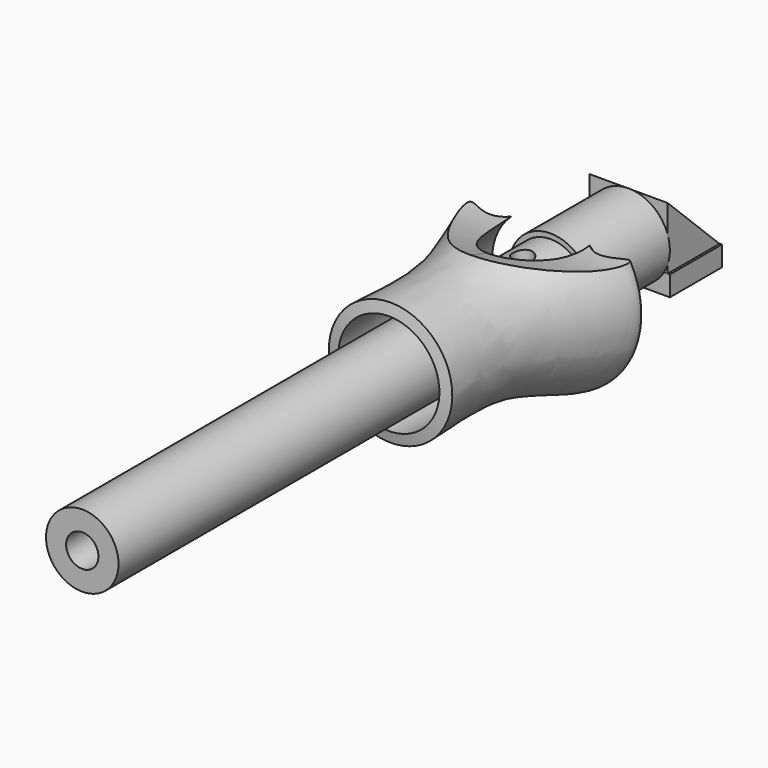
from build123d import *

# Parameters (mm, degrees)
F0_R           = 27.8682567928
F1_DEPTH       = 450
F3_R           = 31.7426077066
F4_DEPTH       = 75
F5_R           = 5.4613803506
F6_DEPTH       = 31.7436077066
F2_R           = 12.4265902443
F7_DEPTH       = 450
F8_R           = 7.5878383405
F9_DEPTH       = 31.7436077066
F10_R          = 7.6803500785
F11_DEPTH      = 31.7436077066
F12_R          = 5.8911696057
F13_DEPTH      = 31.7436077066
F14_R          = 4.2273830794
F15_DEPTH      = 31.7436077066
F16_R          = 9.5416938774
F17_DEPTH      = 31.7436077066
F18_R          = 7.6504655275
F19_DEPTH      = 31.7436077066
F20_W          = 13.7190991081
F20_H          = 25.0280853361
F21_DEPTH      = 31.7436077066
F23_DEPTH      = 50
F24_W          = 30.3069651127
F24_H          = 5.7904422283
F25_DEPTH      = 125
F26_R          = 7.6301115916
F27_DEPTH      = 31.7436077066
F31_DEPTH      = 70.6343507108
F31_DEPTH_BACK = 70.6343507108
F33_DEPTH      = 30
F35_DEPTH      = 30


with BuildPart() as f1:
    # F0 (on Front) → F1 (new body)
    with BuildSketch(Plane.XZ):
        Circle(F0_R)
    extrude(amount=F1_DEPTH)

    # F3 (on Front) → F4 (join)
    with BuildSketch(Plane.XZ):
        Circle(F3_R)
    extrude(amount=-F4_DEPTH)

    # F5 (on Top) → F6 (cut, through all)
    with BuildSketch(Plane.XY):
        with Locations((0, -52.0694255829)):
            Circle(F5_R)
    extrude(amount=-F6_DEPTH, mode=Mode.SUBTRACT)

    # F2 (on face) → F7 (cut, through all)
    with BuildSketch(Plane.XZ.offset(450)):
        Circle(F2_R)
    extrude(amount=-F7_DEPTH, mode=Mode.SUBTRACT)

    # F8 (on Top) → F9 (cut, through all)
    with BuildSketch(Plane.XY):
        with Locations((0, -113.2800281048)):
            Circle(F8_R)
    extrude(amount=-F9_DEPTH, mode=Mode.SUBTRACT)

    # F10 (on Top) → F11 (cut, through all)
    with BuildSketch(Plane.XY):
        with Locations((0, -172.3557412624)):
            Circle(F10_R)
    extrude(amount=-F11_DEPTH, mode=Mode.SUBTRACT)

    # F12 (on Top) → F13 (cut, through all)
    with BuildSketch(Plane.XY):
        with Locations((0, -230.4481565952)):
            Circle(F12_R)
    extrude(amount=-F13_DEPTH, mode=Mode.SUBTRACT)

    # F14 (on Top) → F15 (cut, through all)
    with BuildSketch(Plane.XY):
        with Locations((0, -289.194971323)):
            Circle(F14_R)
    extrude(amount=-F15_DEPTH, mode=Mode.SUBTRACT)

    # F16 (on Top) → F17 (cut, through all)
    with BuildSketch(Plane.XY):
        with Locations((0, -353.1131744385)):
            Circle(F16_R)
    extrude(amount=-F17_DEPTH, mode=Mode.SUBTRACT)

    # F18 (on Top) → F19 (cut, through all)
    with BuildSketch(Plane.XY):
        with Locations((9.1031109914, -425.7108271122)):
            Circle(F18_R)
    extrude(amount=-F19_DEPTH, mode=Mode.SUBTRACT)

    # F20 (on Top) → F21 (cut, through all)
    with BuildSketch(Plane.XY):
        with Locations((-0.0144822989, 27.7926297858)):
            Rectangle(F20_W, F20_H)
    extrude(amount=-F21_DEPTH, mode=Mode.SUBTRACT)

    # F22 (on face) → F23 (join)
    with BuildSketch(Plane(origin=(0, 75, 0), x_dir=(-1, 0, 0), z_dir=(0, 1, 0))):
        Polygon((30.7389162481, -16.2723436952), (-31.7426077066, -16.2723436952), (-31.7426077066, -31.7426077066), (0, -31.7426077066), (30.7389162481, -31.7426077066), align=None)
    extrude(amount=F23_DEPTH)

    # F24 (on face) → F25 (cut, through all)
    with BuildSketch(Plane(origin=(0, 125, 0), x_dir=(-1, 0, 0), z_dir=(0, 1, 0))):
        with Locations((-0.2829283476, -24.2544077337)):
            Rectangle(F24_W, F24_H)
    extrude(amount=-F25_DEPTH, mode=Mode.SUBTRACT)

    # F26 (on Top) → F27 (cut, through all)
    with BuildSketch(Plane.XY):
        with Locations((0, -26.7632715404)):
            Circle(F26_R)
    extrude(amount=F27_DEPTH, mode=Mode.SUBTRACT)

    # F32 (on Right) → F33 (join)
    with BuildSketch(Plane.YZ):
        Polygon((124.8888373375, -16.3529273123), (75.0648379326, 31.5399095416), (75.0648379326, -16.3529273123), align=None)
    extrude(amount=F33_DEPTH)

    # F34 (on Right) → F35 (join)
    with BuildSketch(Plane.YZ):
        Polygon((125.0654608011, -16.4516940713), (75.1573592424, 31.5077193081), (75.1573592424, -16.4516940713), align=None)
    extrude(amount=-F35_DEPTH)


with BuildPart() as f29:
    # F29: sweep along a path in F29_path
    with BuildLine(Plane(origin=(31.7426077066, 0, 0), x_dir=(0, 0, 1), z_dir=(0, -1, 0))) as f29_path:
        CenterArc((0, 31.7426077066), 31.7426077066, 0, 360)
    # F28 (on Right) → F29 (sweep)
    with BuildSketch(Plane.YZ):
        with BuildLine():
            add(Edge.make_bspline(
                [(0, -44.9296236038), (-11.8808541058, -52.679159904), (19.9118544379, -85.2073318976), (-73.4627668524, -40.8908481286), (-117.4290782501, -46.2841671125), (-153.7271589041, -47.4504493177)],
                knots=[0, 0, 0, 0, 0.2186249737, 0.5700425452, 1, 1, 1, 1], degree=3))
            Line((0, -44.9296236038), (-155.3757190704, -38.8842150569))
            Line((-155.3757190704, -38.8842150569), (-153.7271589041, -47.4504493177))
        make_face()
    sweep(path=f29_path.line)

    # F30 (on Right) → F31 (cut, two sides)
    with BuildSketch(Plane.YZ) as f31_sk:
        with BuildLine():
            add(Edge.make_bspline(
                [(39.1968339682, 45.6108637154), (21.8899796992, 37.6804752333), (-19.1729594834, 18.8645162571), (-162.2014105331, 82.8312541845), (-109.9925002756, 106.6979340571), (-37.7146074818, 103.0425682595), (12.8280567005, 100.4864349961)],
                knots=[0, 0, 0, 0, 0.2276113216, 0.5400397849, 0.6783578797, 1, 1, 1, 1], degree=3))
            Line((39.1968339682, 45.6108637154), (12.8280567005, 100.4864349961))
        make_face()
    extrude(amount=-F31_DEPTH, mode=Mode.SUBTRACT)
    extrude(f31_sk.sketch, amount=F31_DEPTH_BACK, mode=Mode.SUBTRACT)


solid = Compound([f1.part, f29.part])
